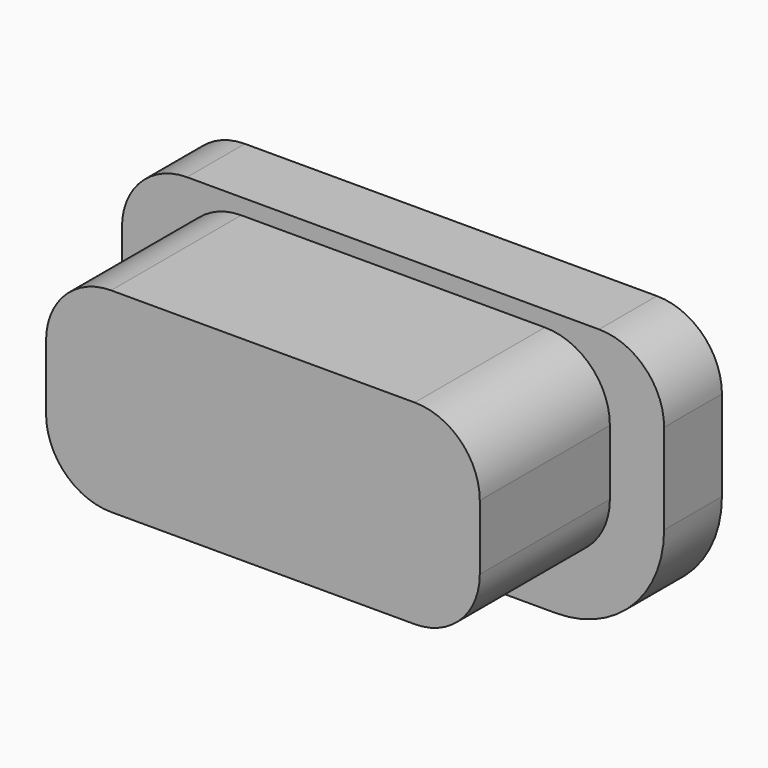
from build123d import *

# Parameters (mm, degrees)
EXTRUDE031_DEPTH = 1
EXTRUDE030_DEPTH = 2.75


with BuildPart() as extrude031:
    # Sketch034 → Extrude031 (new body)
    with BuildSketch(Plane.XZ):
        with BuildLine():
            ThreePointArc((11.7, 16.35), (11.063604, 16.086396), (10.8, 15.45))
            Line((10.8, 14.2), (10.8, 15.45))
            ThreePointArc((10.8, 14.2), (11.23934, 13.13934), (12.3, 12.7))
            Line((16.8, 12.7), (12.3, 12.7))
            ThreePointArc((16.8, 12.7), (17.86066, 13.13934), (18.3, 14.2))
            Line((18.3, 15.45), (18.3, 14.2))
            ThreePointArc((18.3, 15.45), (18.036396, 16.086396), (17.4, 16.35))
            Line((11.7, 16.35), (17.4, 16.35))
        make_face()
    extrude(amount=EXTRUDE031_DEPTH)


with BuildPart() as extrude031_1:
    # Extrude031 placement: moved
    add(extrude031.part.moved(Location((0, 2.5, 0))))


with BuildPart() as button002:
    # Sketch033 → Extrude030 (new body)
    with BuildSketch(Plane.XZ):
        with BuildLine():
            ThreePointArc((12.75, 16.23), (12.113604, 15.966396), (11.85, 15.33))
            Line((11.85, 14.43), (11.85, 15.33))
            ThreePointArc((11.85, 14.43), (12.113604, 13.793604), (12.75, 13.53))
            Line((16.95, 13.53), (12.75, 13.53))
            ThreePointArc((16.95, 13.53), (17.586396, 13.793604), (17.85, 14.43))
            Line((17.85, 15.33), (17.85, 14.43))
            ThreePointArc((17.85, 15.33), (17.586396, 15.966396), (16.95, 16.23))
            Line((12.75, 16.23), (16.95, 16.23))
        make_face()
    extrude(amount=EXTRUDE030_DEPTH)


with BuildPart() as button002_1:
    # Extrude030 placement: moved
    add(button002.part.moved(Location((-0.3, 2, -0.1))))

    # Fusion033: union Extrude031
    add(extrude031_1.part)


with BuildPart() as button002_2:
    # Fusion033 placement: moved
    add(button002_1.part.moved(Location((32.45, 0, 0))))


solid = button002_2.part
